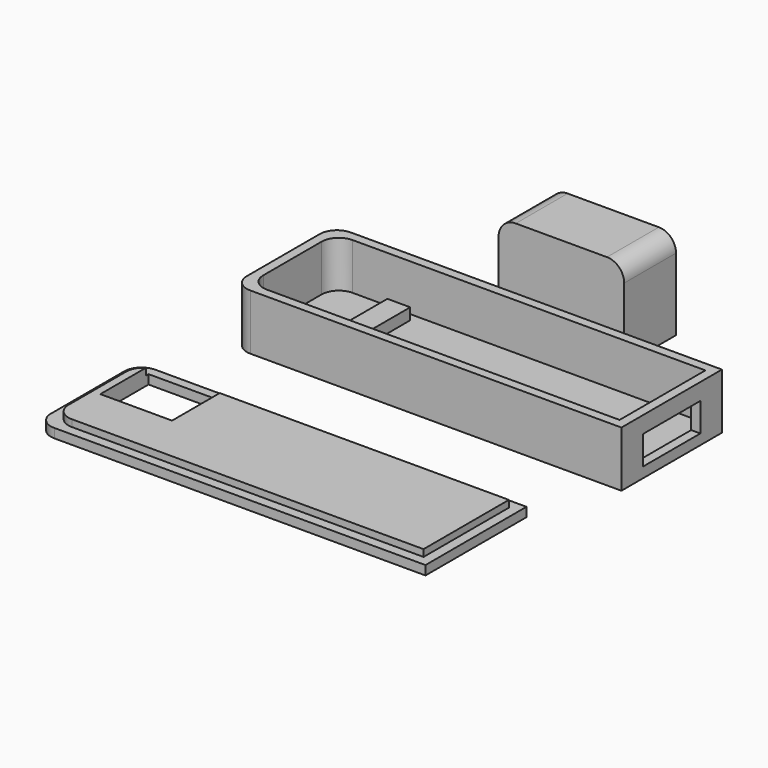
from build123d import *

# Parameters (mm, degrees)
F1_DEPTH  = 9.7
F2_DEPTH  = 1.6
F3_W      = 12.5
F3_H      = 5
F4_DEPTH  = 1.6
F5_W      = 3.982823
F5_H      = 15.637309
F6_DEPTH  = 2
F8_DEPTH  = 1.6
F9_DEPTH  = 2.8
F10_W     = 12.5
F10_H     = 10.5
F11_DEPTH = 9.701
F12_W     = 21.9
F12_H     = 11.3
F12_W_2   = 12.5
F12_H_2   = 5
F13_DEPTH = 14
F14_W     = 21.9
F14_H     = 11.3
F15_DEPTH = 1.6
F16_R     = 3


with BuildPart() as f1:
    # F0 (on Top) → F1 (new body)
    with BuildSketch(Plane.XY):
        with BuildLine():
            Line((33.918102, -9.397182), (33.918102, 12.502818))
            Line((33.918102, 12.502818), (-30.781898, 12.502818))
            ThreePointArc((-30.781898, 12.502818), (-32.903218, 11.624139), (-33.781898, 9.502818))
            Line((-33.781898, 9.502818), (-33.781898, -6.397182))
            ThreePointArc((-33.781898, -6.397182), (-32.903218, -8.518502), (-30.781898, -9.397182))
            Line((-30.781898, -9.397182), (33.918102, -9.397182))
        make_face()
        with BuildLine():
            Line((-29.181898, 10.902818), (32.318102, 10.902818))
            Line((32.318102, 10.902818), (32.318102, -7.797182))
            Line((32.318102, -7.797182), (-29.181898, -7.797182))
            ThreePointArc((-29.181898, -7.797182), (-31.303218, -6.918502), (-32.181898, -4.797182))
            Line((-32.181898, -4.797182), (-32.181898, 7.902818))
            ThreePointArc((-32.181898, 7.902818), (-31.303218, 10.024139), (-29.181898, 10.902818))
        make_face(mode=Mode.SUBTRACT)
    extrude(amount=F1_DEPTH)

    # F0 (on Top) → F2 (join)
    with BuildSketch(Plane.XY):
        with BuildLine():
            Line((32.318102, -7.797182), (32.318102, 10.902818))
            Line((32.318102, 10.902818), (-29.181898, 10.902818))
            ThreePointArc((-29.181898, 10.902818), (-31.303218, 10.024139), (-32.181898, 7.902818))
            Line((-32.181898, 7.902818), (-32.181898, -4.797182))
            ThreePointArc((-32.181898, -4.797182), (-31.303218, -6.918502), (-29.181898, -7.797182))
            Line((-29.181898, -7.797182), (32.318102, -7.797182))
        make_face()
    extrude(amount=F2_DEPTH)

    # F3 (on face) → F4 (cut, through all)
    with BuildSketch(Plane.YZ.offset(33.918102)):
        with Locations((1.552818, 4.3)):
            Rectangle(F3_W, F3_H)
    extrude(amount=-F4_DEPTH, mode=Mode.SUBTRACT)

    # F5 (on face) → F6 (join)
    with BuildSketch(Plane.XY.offset(1.6)):
        with Locations((-19.990486, 1.666645)):
            Rectangle(F5_W, F5_H)
    extrude(amount=F6_DEPTH)


with BuildPart() as f8:
    # F7 (on Top) → F8 (new body)
    with BuildSketch(Plane.XY):
        with BuildLine():
            ThreePointArc((-34.303793, -25.261457), (-36.425113, -26.140137), (-37.303793, -28.261457))
            Line((-37.303793, -28.261457), (-37.303793, -40.861457))
            ThreePointArc((-37.303793, -40.861457), (-36.425113, -42.982778), (-34.303793, -43.861457))
            Line((-34.303793, -43.861457), (26.996207, -43.861457))
            Line((26.996207, -43.861457), (26.996207, -25.261457))
            Line((26.996207, -25.261457), (-34.303793, -25.261457))
        make_face()
        with BuildLine():
            Line((28.696207, -45.561457), (28.696207, -23.561457))
            Line((28.696207, -23.561457), (-36.003793, -23.561457))
            ThreePointArc((-36.003793, -23.561457), (-38.125113, -24.440137), (-39.003793, -26.561457))
            Line((-39.003793, -26.561457), (-39.003793, -42.561457))
            ThreePointArc((-39.003793, -42.561457), (-38.125113, -44.682778), (-36.003793, -45.561457))
            Line((-36.003793, -45.561457), (28.696207, -45.561457))
        make_face()
        with BuildLine():
            Line((-37.303793, -40.861457), (-37.303793, -28.261457))
            ThreePointArc((-37.303793, -28.261457), (-36.425113, -26.140137), (-34.303793, -25.261457))
            Line((-34.303793, -25.261457), (26.996207, -25.261457))
            Line((26.996207, -25.261457), (26.996207, -43.861457))
            Line((26.996207, -43.861457), (-34.303793, -43.861457))
            ThreePointArc((-34.303793, -43.861457), (-36.425113, -42.982778), (-37.303793, -40.861457))
        make_face(mode=Mode.SUBTRACT)
    extrude(amount=F8_DEPTH)

    # F7 (on Top) → F9 (join)
    with BuildSketch(Plane.XY):
        with BuildLine():
            ThreePointArc((-34.303793, -25.261457), (-36.425113, -26.140137), (-37.303793, -28.261457))
            Line((-37.303793, -28.261457), (-37.303793, -40.861457))
            ThreePointArc((-37.303793, -40.861457), (-36.425113, -42.982778), (-34.303793, -43.861457))
            Line((-34.303793, -43.861457), (26.996207, -43.861457))
            Line((26.996207, -43.861457), (26.996207, -25.261457))
            Line((26.996207, -25.261457), (-34.303793, -25.261457))
        make_face()
    extrude(amount=F9_DEPTH)

    # F10 (on face) → F11 (cut, through all)
    with BuildSketch(Plane(origin=(0, 0, 0), x_dir=(1, 0, 0), z_dir=(0, 0, -1))):
        with Locations((-29.653793, 30.411457)):
            Rectangle(F10_W, F10_H)
    extrude(amount=-F11_DEPTH, mode=Mode.SUBTRACT)


with BuildPart() as f13:
    # F12 (on Top) → F13 (new body)
    with BuildSketch(Plane.XY):
        with Locations((0.128907, 25.403213)):
            Rectangle(F12_W, F12_H)
        with Locations((0.128907, 24.053213)):
            Rectangle(F12_W_2, F12_H_2, mode=Mode.SUBTRACT)
    extrude(amount=F13_DEPTH)

    # F14 (on face) → F15 (join)
    with BuildSketch(Plane.XY.offset(14)):
        with Locations((0.128907, 25.403213)):
            Rectangle(F14_W, F14_H)
    extrude(amount=F15_DEPTH)

    # F16
    f16_edges = [f13.edges().sort_by_distance(p)[0] for p in [
        (11.078907, 25.403213, 15.6),
        (-10.821093, 25.403213, 15.6),
    ]]
    fillet(f16_edges, radius=F16_R)


solid = Compound([f1.part, f8.part, f13.part])
